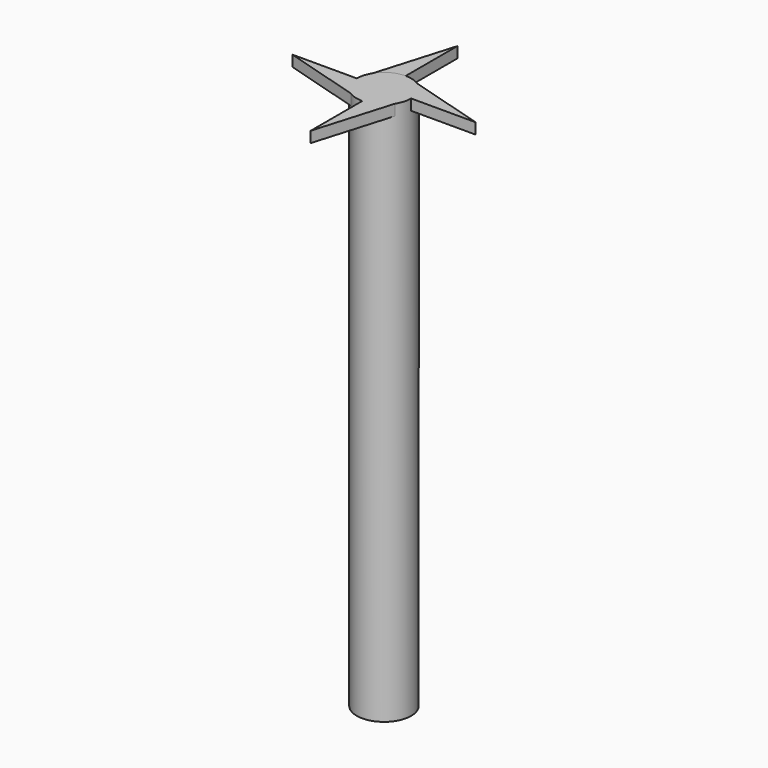
from build123d import *

# Parameters (mm, degrees)
F0_R          = 3.175
F1_DEPTH      = 31.75
F1_DEPTH_BACK = 31.75
F3_DEPTH      = 1.27
F4_DEPTH      = 1.27
F5_DEPTH      = 1.27
F6_DEPTH      = 1.27


with BuildPart() as f1:
    # F0 (on Top) → F1 (new body, two sides)
    with BuildSketch(Plane.XY) as f1_sk:
        Circle(F0_R)
    extrude(amount=F1_DEPTH)
    extrude(f1_sk.sketch, amount=-F1_DEPTH_BACK)

    # F2 (on face) → F4 (join)
    with BuildSketch(Plane.XY.offset(31.75)):
        with BuildLine():
            ThreePointArc((-1.729649, -2.662506), (-2.790364, -1.514759), (-3.175, 0))
            Line((-3.175, 0), (-10.715519, 0))
            Line((-10.715519, 0), (-1.729649, -2.662506))
        make_face()
    extrude(amount=-F4_DEPTH)

    # F2 (on face) → F5 (join)
    with BuildSketch(Plane.XY.offset(31.75)):
        with BuildLine():
            ThreePointArc((2.662506, -1.729649), (1.514759, -2.790364), (0, -3.175))
            Line((0, -3.175), (0, -10.715519))
            Line((0, -10.715519), (2.662506, -1.729649))
        make_face()
    extrude(amount=-F5_DEPTH)

    # F2 (on face) → F6 (join)
    with BuildSketch(Plane.XY.offset(31.75)):
        with BuildLine():
            Line((10.715519, 0), (1.729649, 2.662506))
            ThreePointArc((1.729649, 2.662506), (2.790364, 1.514759), (3.175, 0))
            Line((3.175, 0), (10.715519, 0))
        make_face()
    extrude(amount=-F6_DEPTH)


with BuildPart() as f3:
    # F2 (on face) → F3 (new body)
    with BuildSketch(Plane.XY.offset(31.75)):
        with BuildLine():
            Line((0, 10.715519), (-2.662506, 1.729649))
            ThreePointArc((-2.662506, 1.729649), (-1.514759, 2.790364), (0, 3.175))
            Line((0, 3.175), (0, 10.715519))
        make_face()
    extrude(amount=-F3_DEPTH)


solid = Compound([f1.part, f3.part])
